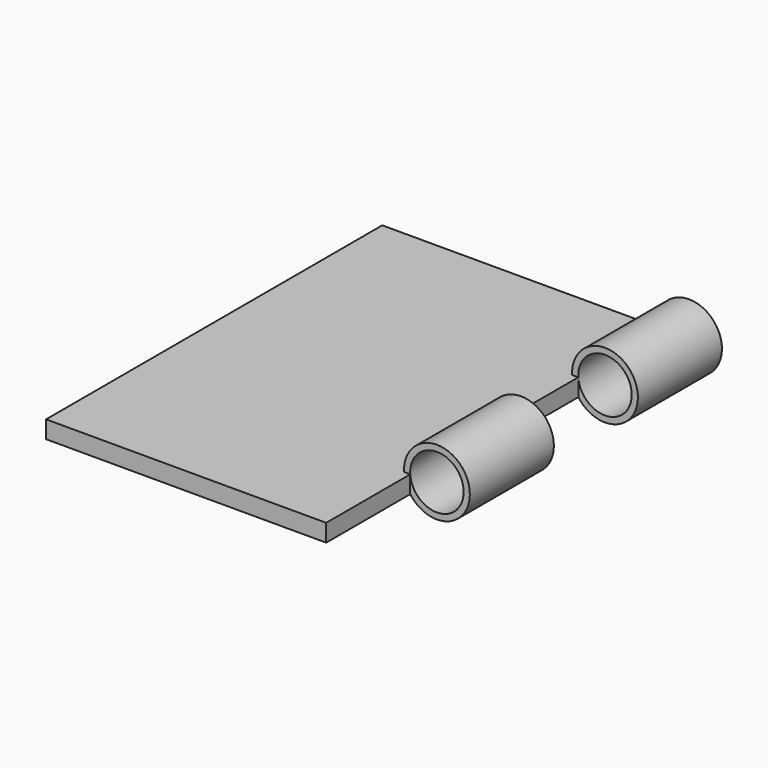
from build123d import *

# Parameters (mm, degrees)
F0_W     = 50.8
F0_H     = 76.2
F1_DEPTH = 3.175
F3_W     = 19.05
F3_H     = 3.175


with BuildPart() as f1:
    # F0 (on Top) → F1 (new body)
    with BuildSketch(Plane.XY):
        with Locations((1.494585, -38.1)):
            Rectangle(F0_W, F0_H)
    extrude(amount=F1_DEPTH)

    # F4: sweep along a path in F2
    with BuildLine(Plane.XZ) as f4_path:
        CenterArc((31.730928, 3.497947), 4.7625, 0, 360)
    # F3 (on face) → F4 (sweep)
    with BuildSketch(Plane.YZ.offset(26.894585)):
        with Locations((-9.525, 1.5875)):
            Rectangle(F3_W, F3_H)
        with Locations((-47.625, 1.5875)):
            Rectangle(F3_W, F3_H)
    sweep(path=f4_path.line)


solid = f1.part
